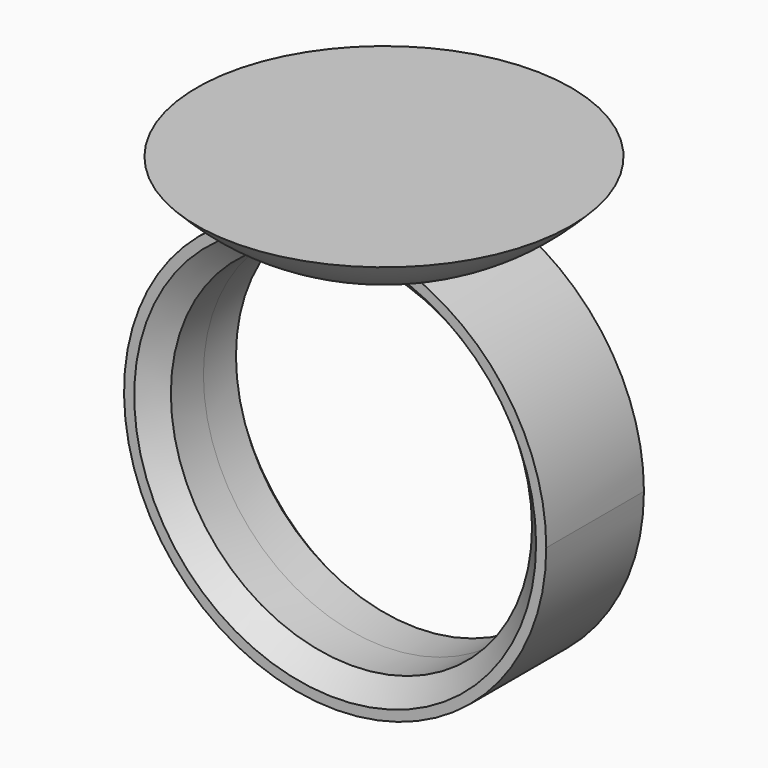
from build123d import *

# Parameters (mm, degrees)
F0_R          = 8.875
F3_DEPTH      = 3
F3_DEPTH_BACK = 3
F4_SIZE       = 1


with BuildPart() as f2:
    # F0 (on Front) → F2 (revolve)
    with BuildSketch(Plane.XZ):
        with BuildLine():
            ThreePointArc((0, 10.375), (2.3580401671, 10.1034781917), (4.5926568488, 9.3031246401))
            ThreePointArc((4.5926568488, 9.3031246401), (7.0784745003, 10.5329995788), (9.1944970191, 12.325854972))
            Line((9.1944970191, 12.325854972), (0, 12.325854972))
            Line((0, 12.325854972), (0, 10.375))
        make_face()
    revolve(axis=Axis((0, 0, 0), (0, 0, 1)))

    # F0 (on Front) → F3 (join, two sides)
    with BuildSketch(Plane.XZ) as f3_sk:
        with BuildLine():
            ThreePointArc((0, 10.375), (-7.3362328548, -7.3362328548), (10.375, 0))
            ThreePointArc((10.375, 0), (8.8116241354, 5.4768517505), (4.5926568488, 9.3031246401))
            Line((4.5926568488, 9.3031246401), (0, 9.3031246401))
            Line((0, 9.3031246401), (0, 10.375))
        make_face()
        Circle(F0_R, mode=Mode.SUBTRACT)
        with BuildLine():
            Line((0, 9.3031246401), (4.5926568488, 9.3031246401))
            ThreePointArc((4.5926568488, 9.3031246401), (2.3580401671, 10.1034781917), (0, 10.375))
            Line((0, 10.375), (0, 9.3031246401))
        make_face()
    extrude(amount=F3_DEPTH)
    extrude(f3_sk.sketch, amount=-F3_DEPTH_BACK)

    # F4
    f4_edges = [f2.edges().sort_by_distance(p)[0] for p in [
        (-8.875, -3, 0),
        (-8.875, 3, 0),
    ]]
    chamfer(f4_edges, length=F4_SIZE)


solid = f2.part
